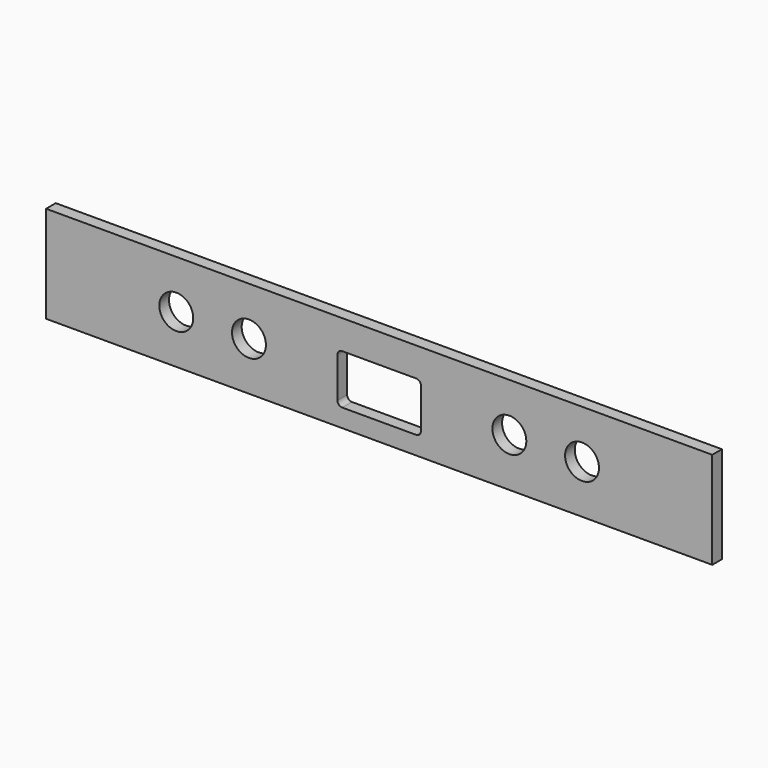
from build123d import *

# Parameters (mm, degrees)
F0_W     = 550
F0_H     = 80
F0_W_2   = 69
F0_H_2   = 41
F0_R     = 14
F1_DEPTH = 10
F2_R     = 4


with BuildPart() as f1:
    # F0 (on Front) → F1 (new body)
    with BuildSketch(Plane.XZ):
        Rectangle(F0_W, F0_H)
        with Locations((0, -4.5)):
            Rectangle(F0_W_2, F0_H_2, mode=Mode.SUBTRACT)
        with Locations((-167.5, 0)):
            Circle(F0_R, mode=Mode.SUBTRACT)
        with Locations((-107.5, 0)):
            Circle(F0_R, mode=Mode.SUBTRACT)
        with Locations((107.5, 0)):
            Circle(F0_R, mode=Mode.SUBTRACT)
        with Locations((167.5, 0)):
            Circle(F0_R, mode=Mode.SUBTRACT)
    extrude(amount=-F1_DEPTH)

    # F2
    f2_edges = [f1.edges().sort_by_distance(p)[0] for p in [
        (-34.5, 5, 16),
        (34.5, 5, 16),
        (34.5, 5, -25),
        (-34.5, 5, -25),
    ]]
    fillet(f2_edges, radius=F2_R)


solid = f1.part
